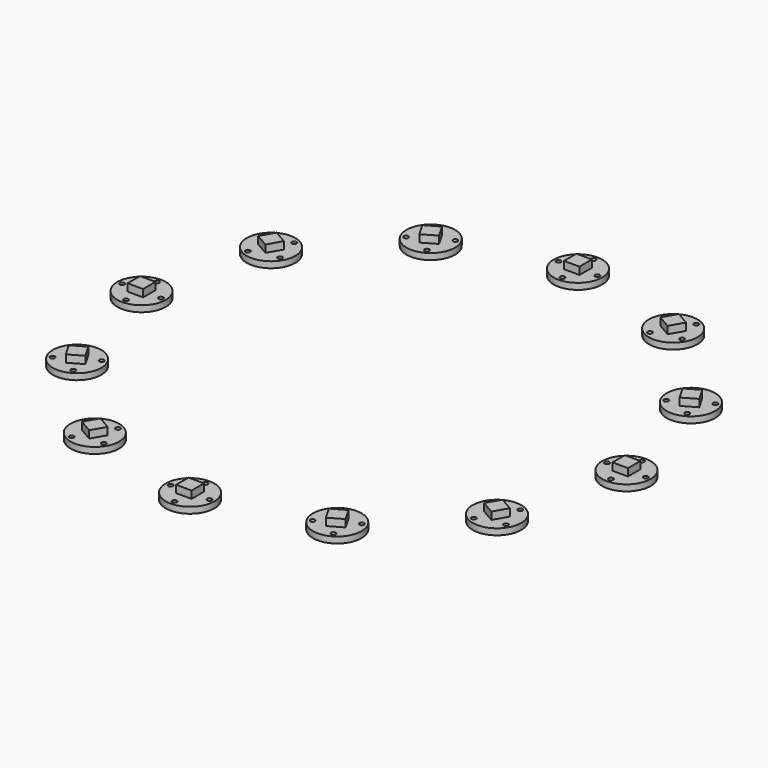
from build123d import *

# Parameters (mm, degrees)
F0_R     = 6.25
F1_DEPTH = 1.6
F2_W     = 4
F2_H     = 4
F3_DEPTH = 1.9
F4_R     = 0.6
F5_DEPTH = 25
F7_COUNT = 12
F7_ANGLE = 330


with BuildPart() as f1:
    # F0 (on Top) → F1 (new body)
    with BuildSketch(Plane.XY):
        Circle(F0_R)
    extrude(amount=F1_DEPTH)

    # F2 (on face) → F3 (join)
    with BuildSketch(Plane.XY.offset(1.6)):
        Rectangle(F2_W, F2_H)
    extrude(amount=F3_DEPTH)

    # F4 (on face) → F5 (cut)
    with BuildSketch(Plane.XY.offset(1.6)):
        with Locations((0, 5)):
            Circle(F4_R)
        with Locations((-5, 0)):
            Circle(F4_R)
        with Locations((0, -5)):
            Circle(F4_R)
        with Locations((5, 0)):
            Circle(F4_R)
    extrude(amount=-F5_DEPTH, mode=Mode.SUBTRACT)


with BuildPart() as f7_1:
    # F7: instance of F1
    add(f1.part.rotate(Axis((0, 62.5, 0), (0, 0, 1)), 1 * F7_ANGLE / (F7_COUNT - 1)))


with BuildPart() as f7_2:
    # F7: instance of F1
    add(f1.part.rotate(Axis((0, 62.5, 0), (0, 0, 1)), 2 * F7_ANGLE / (F7_COUNT - 1)))


with BuildPart() as f7_3:
    # F7: instance of F1
    add(f1.part.rotate(Axis((0, 62.5, 0), (0, 0, 1)), 3 * F7_ANGLE / (F7_COUNT - 1)))


with BuildPart() as f7_4:
    # F7: instance of F1
    add(f1.part.rotate(Axis((0, 62.5, 0), (0, 0, 1)), 4 * F7_ANGLE / (F7_COUNT - 1)))


with BuildPart() as f7_5:
    # F7: instance of F1
    add(f1.part.rotate(Axis((0, 62.5, 0), (0, 0, 1)), 5 * F7_ANGLE / (F7_COUNT - 1)))


with BuildPart() as f7_6:
    # F7: instance of F1
    add(f1.part.rotate(Axis((0, 62.5, 0), (0, 0, 1)), 6 * F7_ANGLE / (F7_COUNT - 1)))


with BuildPart() as f7_7:
    # F7: instance of F1
    add(f1.part.rotate(Axis((0, 62.5, 0), (0, 0, 1)), 7 * F7_ANGLE / (F7_COUNT - 1)))


with BuildPart() as f7_8:
    # F7: instance of F1
    add(f1.part.rotate(Axis((0, 62.5, 0), (0, 0, 1)), 8 * F7_ANGLE / (F7_COUNT - 1)))


with BuildPart() as f7_9:
    # F7: instance of F1
    add(f1.part.rotate(Axis((0, 62.5, 0), (0, 0, 1)), 9 * F7_ANGLE / (F7_COUNT - 1)))


with BuildPart() as f7_10:
    # F7: instance of F1
    add(f1.part.rotate(Axis((0, 62.5, 0), (0, 0, 1)), 10 * F7_ANGLE / (F7_COUNT - 1)))


with BuildPart() as f7_11:
    # F7: instance of F1
    add(f1.part.rotate(Axis((0, 62.5, 0), (0, 0, 1)), 11 * F7_ANGLE / (F7_COUNT - 1)))


solid = Compound([f1.part, f7_1.part, f7_2.part, f7_3.part, f7_4.part, f7_5.part, f7_6.part, f7_7.part, f7_8.part, f7_9.part, f7_10.part, f7_11.part])
